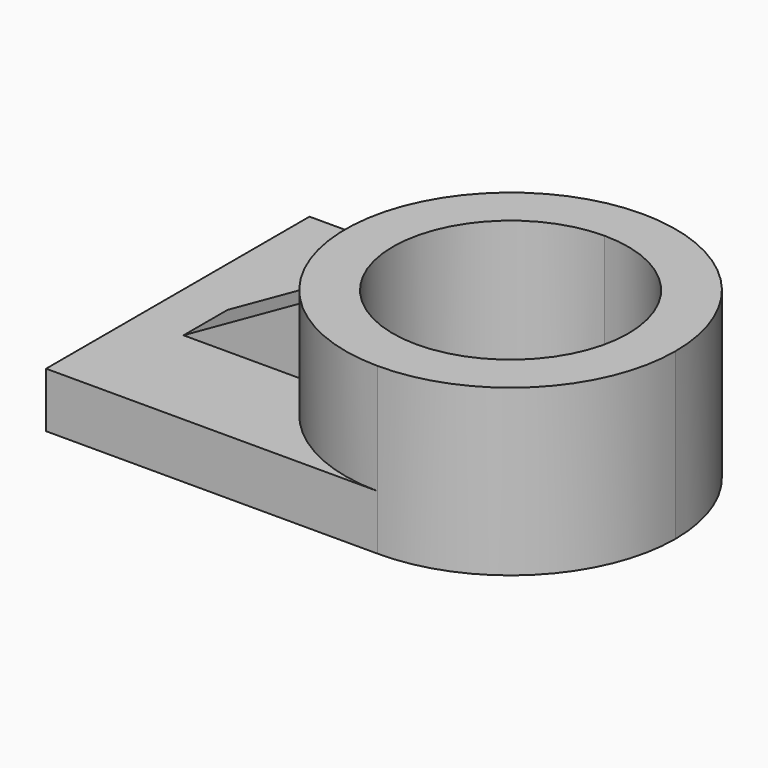
from build123d import *

# Parameters (mm, degrees)
F1_DEPTH = 76.2
F2_DEPTH = 25.4
F3_W     = 53.91736
F3_H     = 30.479998
F4_DEPTH = 25.4
F6_DEPTH = 76.2


with BuildPart() as f1:
    # F0 (on Top) → F1 (new body)
    with BuildSketch(Plane.XY):
        with BuildLine():
            Line((76.582216, 75.727254), (69.014069, 75.727254))
            ThreePointArc((69.014069, 75.727254), (0.557927, -3.493055), (75.990111, -76.10219))
            Line((75.990111, -76.10219), (76.582216, -76.10219))
            Line((76.582216, -76.10219), (76.582216, -54.240059))
            ThreePointArc((76.582216, -54.240059), (22.342157, 0), (76.582216, 54.240059))
            Line((76.582216, 54.240059), (76.582216, 75.727254))
        make_face()
        with BuildLine():
            ThreePointArc((152.686709, 0), (127.650424, 56.426341), (69.014069, 75.727254))
            Line((69.014069, 75.727254), (76.582216, 75.727254))
            Line((76.582216, 75.727254), (76.582216, 54.240059))
            ThreePointArc((76.582216, 54.240059), (114.935729, 38.353513), (130.822274, 0))
            ThreePointArc((130.822274, 0), (114.935729, -38.353513), (76.582216, -54.240059))
            Line((76.582216, -54.240059), (76.582216, -76.10219))
            Line((76.582216, -76.10219), (75.990111, -76.10219))
            ThreePointArc((75.990111, -76.10219), (130.18647, -54.022938), (152.686709, 0))
        make_face()
    extrude(amount=F1_DEPTH)

    # F0 (on Top) → F2 (join)
    with BuildSketch(Plane.XY):
        with BuildLine():
            Line((69.014069, 75.727254), (-76.717794, 75.727254))
            Line((-76.717794, 75.727254), (-76.717794, -76.10219))
            Line((-76.717794, -76.10219), (75.990111, -76.10219))
            ThreePointArc((75.990111, -76.10219), (0.557927, -3.493055), (69.014069, 75.727254))
        make_face()
        with BuildLine():
            ThreePointArc((152.686709, 0), (127.650424, 56.426341), (69.014069, 75.727254))
            Line((69.014069, 75.727254), (76.582216, 75.727254))
            Line((76.582216, 75.727254), (76.582216, 54.240059))
            ThreePointArc((76.582216, 54.240059), (114.935729, 38.353513), (130.822274, 0))
            ThreePointArc((130.822274, 0), (114.935729, -38.353513), (76.582216, -54.240059))
            Line((76.582216, -54.240059), (76.582216, -76.10219))
            Line((76.582216, -76.10219), (75.990111, -76.10219))
            ThreePointArc((75.990111, -76.10219), (130.18647, -54.022938), (152.686709, 0))
        make_face()
    extrude(amount=F2_DEPTH)


with BuildPart() as f4:
    # F3 (on Front) → F4 (new body)
    with BuildSketch(Plane.XZ):
        with Locations((-26.95868, 40.986363)):
            Rectangle(F3_W, F3_H)
    extrude(amount=F4_DEPTH)

    # F5 (on face) → F6 (cut)
    with BuildSketch(Plane.XZ.offset(25.4)):
        Polygon((-53.91736, 25.746364), (0, 56.226362), (-53.91736, 56.226362), align=None)
    extrude(amount=-F6_DEPTH, mode=Mode.SUBTRACT)


solid = Compound([f1.part, f4.part])
